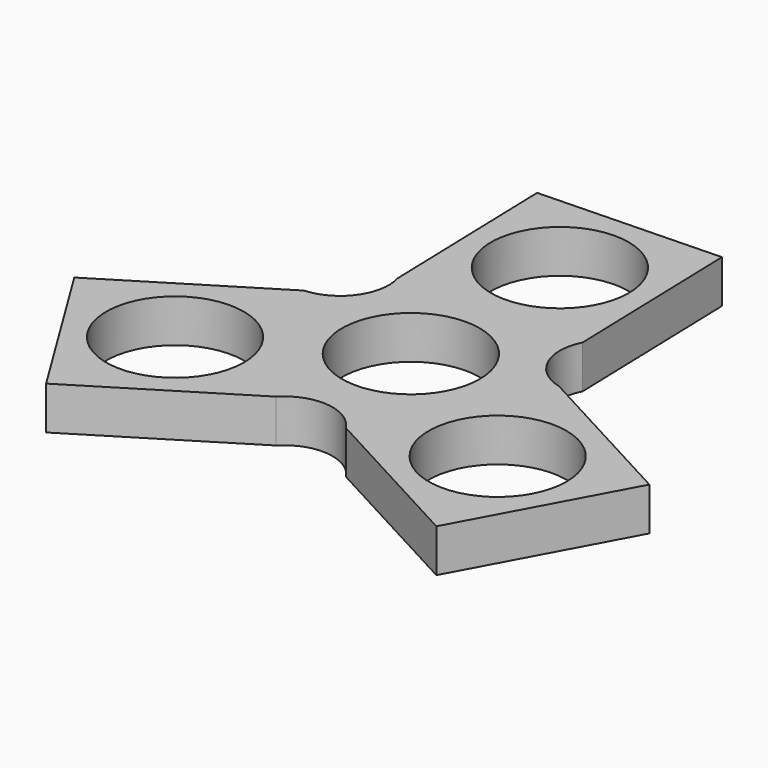
from build123d import *

# Parameters (mm, degrees)
F0_R     = 11.2
F1_DEPTH = 7


with BuildPart() as f1:
    # F0 (on Top) → F1 (new body)
    with BuildSketch(Plane.XY):
        with BuildLine():
            Line((14.265774, 45.414708), (-15.116394, 44.564087))
            Line((-15.116394, 44.564087), (-14.265774, 15.181919))
            ThreePointArc((-14.265774, 15.181919), (-15.420315, 8.400052), (-21.442784, 5.074912))
            Line((-21.442784, 5.074912), (-46.463177, -10.352831))
            Line((-46.463177, -10.352831), (-31.035434, -35.373225))
            Line((-31.035434, -35.373225), (-6.01504, -19.945482))
            ThreePointArc((-6.01504, -19.945482), (0.435499, -17.554411), (6.326389, -21.107451))
            Line((6.326389, -21.107451), (32.197404, -35.061876))
            Line((32.197404, -35.061876), (46.151829, -9.190862))
            Line((46.151829, -9.190862), (20.280814, 4.763563))
            ThreePointArc((20.280814, 4.763563), (14.984816, 9.154359), (15.116394, 16.032539))
            Line((15.116394, 16.032539), (14.265774, 45.414708))
        make_face()
        with Locations((-26.239109, -15.149157)):
            Circle(F0_R, mode=Mode.SUBTRACT)
        Circle(F0_R, mode=Mode.SUBTRACT)
        with Locations((26.239109, -15.149157)):
            Circle(F0_R, mode=Mode.SUBTRACT)
        with Locations((0, 30.298313)):
            Circle(F0_R, mode=Mode.SUBTRACT)
    extrude(amount=F1_DEPTH)


solid = f1.part
